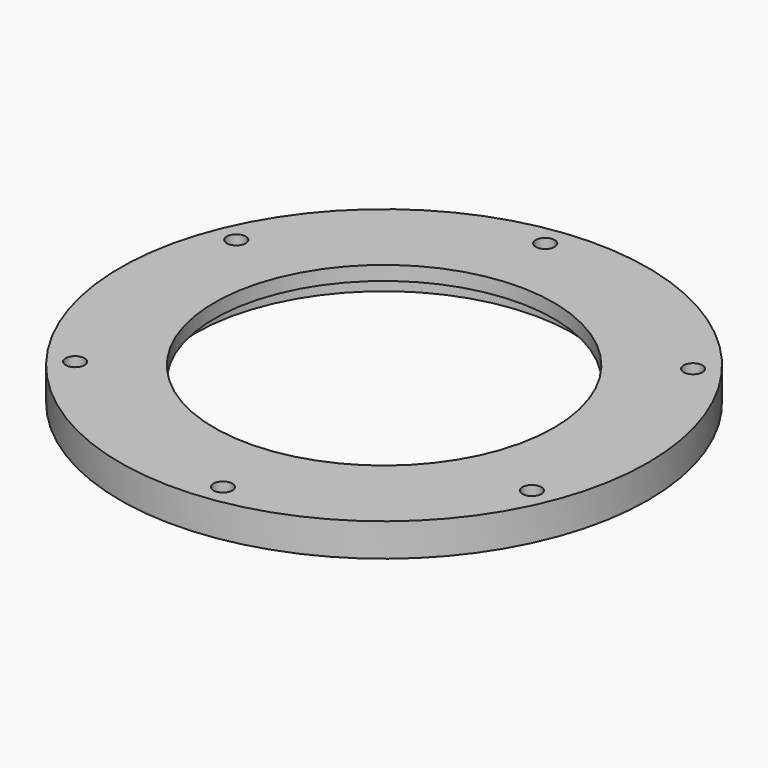
from build123d import *

# Parameters (mm, degrees)
F0_R     = 88.9
F0_R_2   = 57.15
F1_DEPTH = 11.1125
F2_R     = 63.5
F3_DEPTH = 6.35
F5_D     = 6.35
F6_R     = 1.5875


with BuildPart() as f1:
    # F0 (on Top) → F1 (new body)
    with BuildSketch(Plane.XY):
        Circle(F0_R)
        Circle(F0_R_2, mode=Mode.SUBTRACT)
    extrude(amount=F1_DEPTH)

    # F2 (on Top) → F3 (cut)
    with BuildSketch(Plane.XY):
        Circle(F2_R)
    extrude(amount=F3_DEPTH, mode=Mode.SUBTRACT)

    # F5 (through all)
    with Locations(Plane(origin=(0, 0, 0), x_dir=(1, 0, 0), z_dir=(0, 0, -1))):
        with Locations((10.2400904958, 80.6323690997), (-64.7096347598, 49.1843630563), (-74.9497252556, -31.4480060434), (-10.2400904958, -80.6323690997), (64.7096347598, -49.1843630563), (74.9497252556, 31.4480060434)):
            Hole(F5_D / 2)

    # F6
    f6_edges = [f1.edges().sort_by_distance(p)[0] for p in [
        (-63.5, 0, 6.35),
    ]]
    fillet(f6_edges, radius=F6_R)


solid = f1.part
